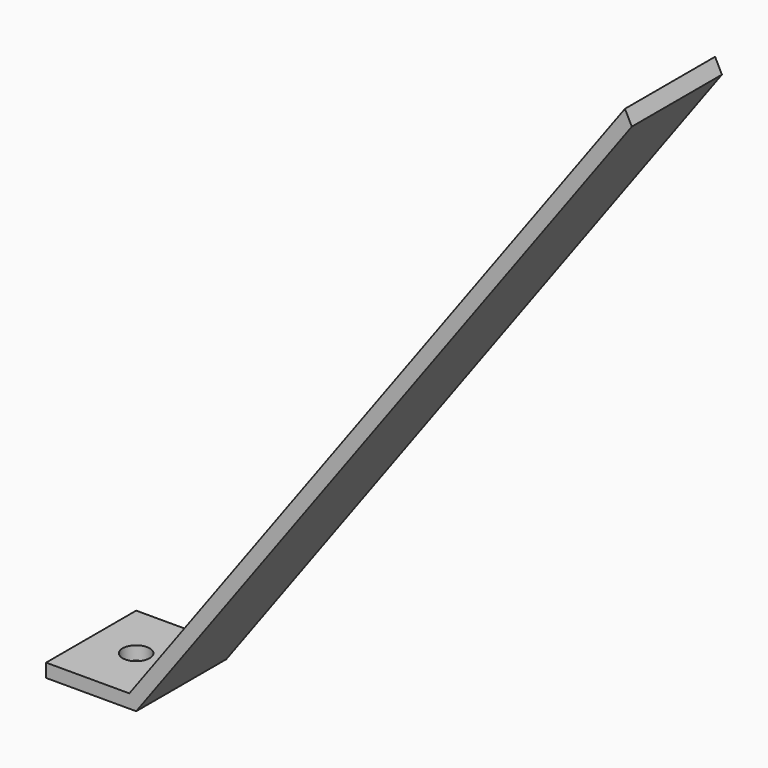
from build123d import *

# Parameters (mm, degrees)
F1_DEPTH = 25
F2_R     = 3
F3_DEPTH = 25


with BuildPart() as f1:
    # F0 (on Front) → F1 (new body)
    with BuildSketch(Plane.XZ):
        Polygon((-58.138707, 3), (-58.138707, 0), (-38.138707, 0), (71.861293, 150), (70.341078, 153), (-39.658922, 3), align=None)
    extrude(amount=F1_DEPTH)

    # F2 (on Top) → F3 (cut)
    with BuildSketch(Plane.XY):
        with Locations((-48.138707, -12.5)):
            Circle(F2_R)
    extrude(amount=F3_DEPTH, mode=Mode.SUBTRACT)


solid = f1.part
